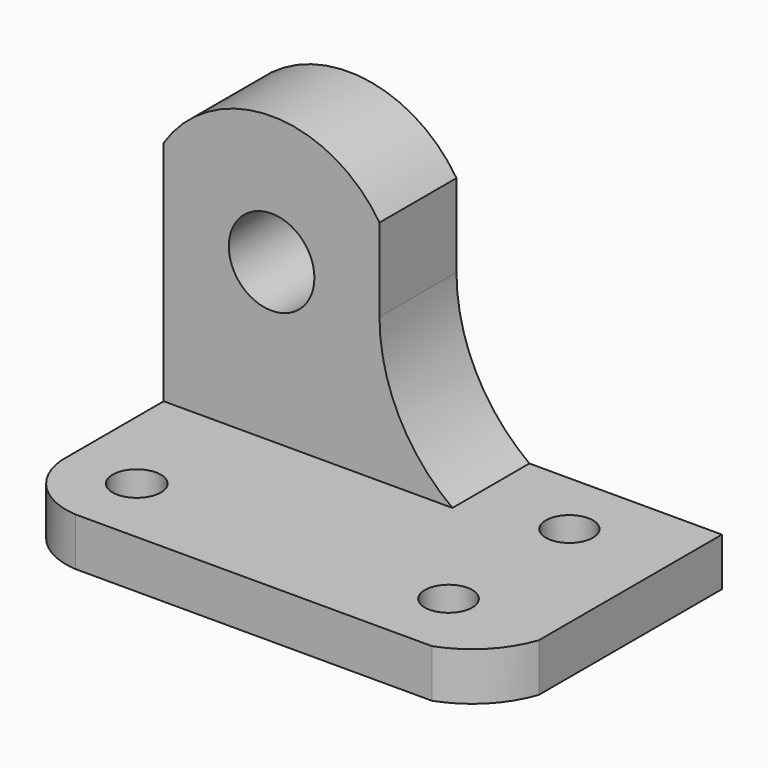
from build123d import *

# Parameters (mm, degrees)
F0_W      = 63.5
F0_H      = 38.1
F1_DEPTH  = 6.35
F3_DEPTH  = 25.4
F4_W      = 38.1
F4_H      = 12.7
F5_DEPTH  = 38.1
F7_DEPTH  = 25.4
F8_R      = 5.646791
F9_DEPTH  = 25.4
F10_R     = 3.186215
F10_R_2   = 3.13512
F10_R_3   = 3.110599
F11_DEPTH = 25.4


with BuildPart() as f1:
    # F0 (on Top) → F1 (new body)
    with BuildSketch(Plane.XY):
        with Locations((31.75, 19.05)):
            Rectangle(F0_W, F0_H)
    extrude(amount=F1_DEPTH)

    # F2 (on face) → F3 (cut)
    with BuildSketch(Plane.XY.offset(6.35)):
        with BuildLine():
            ThreePointArc((8.66646, 0), (2.760987, 2.655022), (0, 8.511703))
            Line((0, 8.511703), (0, 0))
            Line((0, 0), (8.66646, 0))
        make_face()
        with BuildLine():
            ThreePointArc((63.5, 7.892669), (60.506344, 3.058511), (55.712957, 0))
            Line((55.712957, 0), (63.5, 0))
            Line((63.5, 0), (63.5, 7.892669))
        make_face()
    extrude(amount=-F3_DEPTH, mode=Mode.SUBTRACT)

    # F4 (on face) → F5 (join)
    with BuildSketch(Plane.XY.offset(6.35)):
        with Locations((19.05, 31.75)):
            Rectangle(F4_W, F4_H)
    extrude(amount=F5_DEPTH)

    # F6 (on face) → F7 (cut)
    with BuildSketch(Plane.XZ.offset(-25.4)):
        with BuildLine():
            Line((0, 44.45), (0, 36.368184))
            ThreePointArc((0, 36.368184), (14.237756, 44.108916), (28.475512, 36.368184))
            Line((28.475512, 36.368184), (28.475512, 25.4))
            ThreePointArc((28.475512, 25.4), (31.018235, 14.728387), (38.1, 6.35))
            Line((38.1, 6.35), (38.1, 25.4))
            Line((38.1, 25.4), (38.1, 44.45))
            Line((38.1, 44.45), (0, 44.45))
        make_face()
    extrude(amount=-F7_DEPTH, mode=Mode.SUBTRACT)

    # F8 (on face) → F9 (cut)
    with BuildSketch(Plane.XZ.offset(-25.4)):
        with Locations((14.237756, 27.144589)):
            Circle(F8_R)
    extrude(amount=-F9_DEPTH, mode=Mode.SUBTRACT)

    # F10 (on face) → F11 (cut)
    with BuildSketch(Plane.XY.offset(6.35)):
        with Locations((9.307119, 9.320174)):
            Circle(F10_R)
        with Locations((50.451182, 9.320174)):
            Circle(F10_R_2)
        with Locations((50.451182, 29.249305)):
            Circle(F10_R_3)
    extrude(amount=-F11_DEPTH, mode=Mode.SUBTRACT)


solid = f1.part
